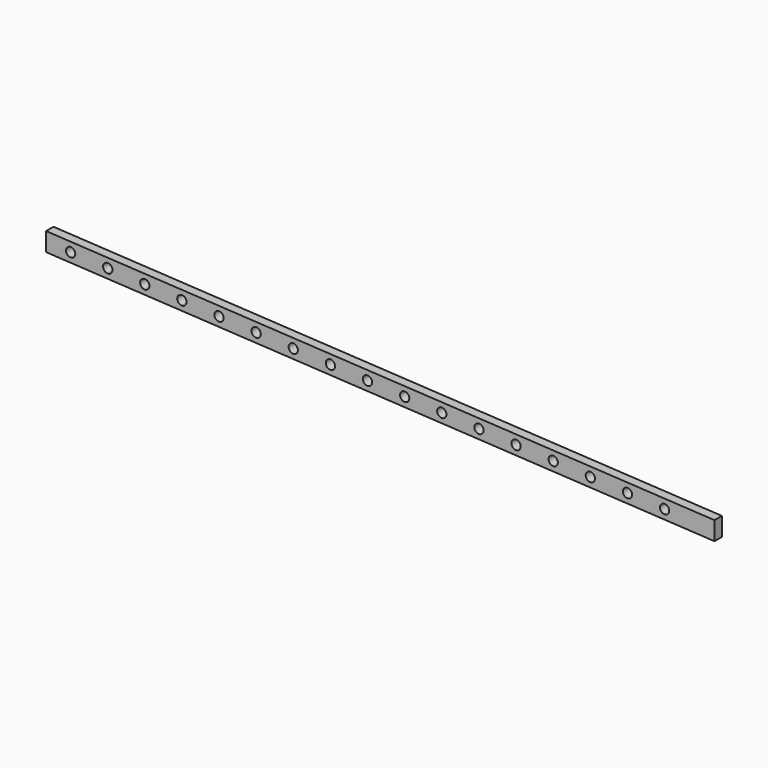
from build123d import *

# Parameters (mm, degrees)
F0_R     = 6.35
F1_DEPTH = 12.7


with BuildPart() as f1:
    # F0 (on Front) → F1 (new body)
    with BuildSketch(Plane.XZ):
        Polygon((457.2, 919.966879), (-457.2, 970.766879), (-457.2, 945.366879), (457.2, 894.566879), align=None)
        with Locations((287.359129, 916.702483)):
            Circle(F0_R, mode=Mode.SUBTRACT)
        with Locations((388.959129, 911.058039)):
            Circle(F0_R, mode=Mode.SUBTRACT)
        with Locations((338.159129, 913.880261)):
            Circle(F0_R, mode=Mode.SUBTRACT)
        with Locations((-68.240871, 936.458039)):
            Circle(F0_R, mode=Mode.SUBTRACT)
        with Locations((-169.840871, 942.102483)):
            Circle(F0_R, mode=Mode.SUBTRACT)
        with Locations((-119.040871, 939.280261)):
            Circle(F0_R, mode=Mode.SUBTRACT)
        with Locations((33.359129, 930.813594)):
            Circle(F0_R, mode=Mode.SUBTRACT)
        with Locations((84.159129, 927.991372)):
            Circle(F0_R, mode=Mode.SUBTRACT)
        with Locations((185.759129, 922.346927)):
            Circle(F0_R, mode=Mode.SUBTRACT)
        with Locations((236.559129, 919.524705)):
            Circle(F0_R, mode=Mode.SUBTRACT)
        with Locations((134.959129, 925.16915)):
            Circle(F0_R, mode=Mode.SUBTRACT)
        with Locations((-17.440871, 933.635816)):
            Circle(F0_R, mode=Mode.SUBTRACT)
        with BuildLine():
            ThreePointArc((-321.771322, 956.902734), (-317.484942, 954.938483), (-315.734443, 950.560459))
            ThreePointArc((-315.734443, 950.560459), (-317.734873, 945.934042), (-322.475778, 944.222529))
            ThreePointArc((-322.475778, 944.222529), (-328.50288, 950.917039), (-321.771322, 956.902734))
        make_face(mode=Mode.SUBTRACT)
        with BuildLine():
            ThreePointArc((-271.049536, 954.084857), (-266.763156, 952.120606), (-265.012657, 947.742582))
            ThreePointArc((-265.012657, 947.742582), (-267.013087, 943.116165), (-271.753992, 941.404652))
            ThreePointArc((-271.753992, 941.404652), (-277.781095, 948.099162), (-271.049536, 954.084857))
        make_face(mode=Mode.SUBTRACT)
        with BuildLine():
            ThreePointArc((-372.493108, 959.720611), (-368.206728, 957.75636), (-366.456229, 953.378336))
            ThreePointArc((-366.456229, 953.378336), (-368.456659, 948.751919), (-373.197564, 947.040406))
            ThreePointArc((-373.197564, 947.040406), (-379.224666, 953.734916), (-372.493108, 959.720611))
        make_face(mode=Mode.SUBTRACT)
        with Locations((-423.606229, 956.200558)):
            Circle(F0_R, mode=Mode.SUBTRACT)
        with Locations((-220.640871, 944.924705)):
            Circle(F0_R, mode=Mode.SUBTRACT)
    extrude(amount=F1_DEPTH)


solid = f1.part
